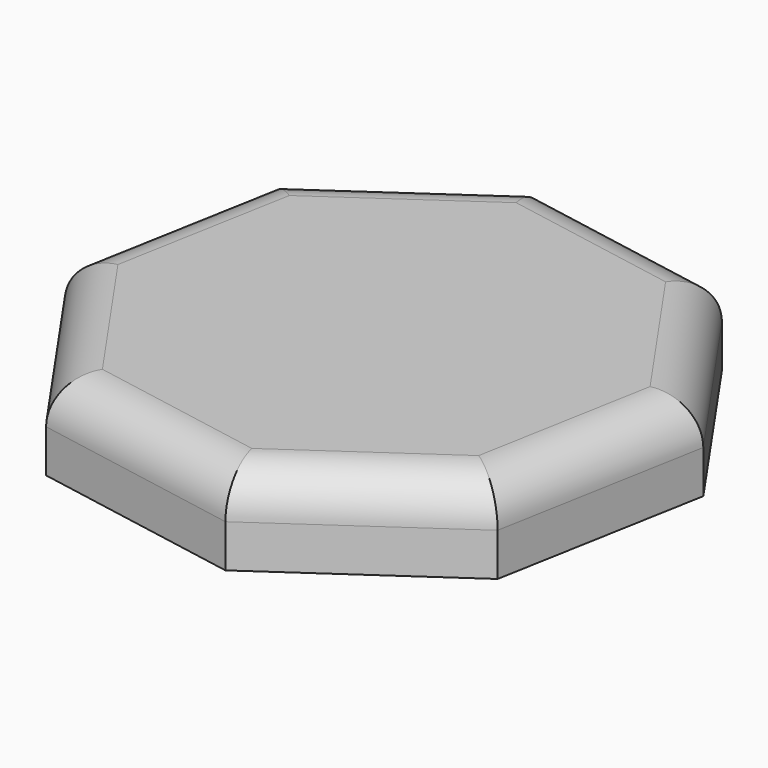
from build123d import *

# Parameters (mm, degrees)
F1_DEPTH = 10
F2_R     = 5
F3_T     = -2


with BuildPart() as f1:
    # F0 (on Top) → F1 (new body)
    with BuildSketch(Plane.XY):
        Polygon((-27.30897, 22.857411), (-31.732832, -1.598505), (-17.568031, -22.019591), (6.887884, -26.443453), (27.30897, -12.278652), (31.732832, 12.177263), (17.568031, 32.59835), (-6.887884, 37.022211), align=None)
    extrude(amount=F1_DEPTH)

    # F2
    f2_edges = [f1.edges().sort_by_distance(p)[0] for p in [
        (-5.340074, -24.231522, 10),
        (17.098427, -19.361053, 10),
        (29.520901, -0.050694, 10),
        (24.650432, 22.387806, 10),
        (5.340074, 34.810281, 10),
        (-17.098427, 29.939811, 10),
        (-29.520901, 10.629453, 10),
        (-24.650432, -11.809048, 10),
    ]]
    fillet(f2_edges, radius=F2_R)

    # F3
    f3_openings = [f1.faces().sort_by_distance(p)[0] for p in [
        (0, 5.289379, 0),
    ]]
    offset(amount=F3_T, openings=f3_openings)


solid = f1.part
